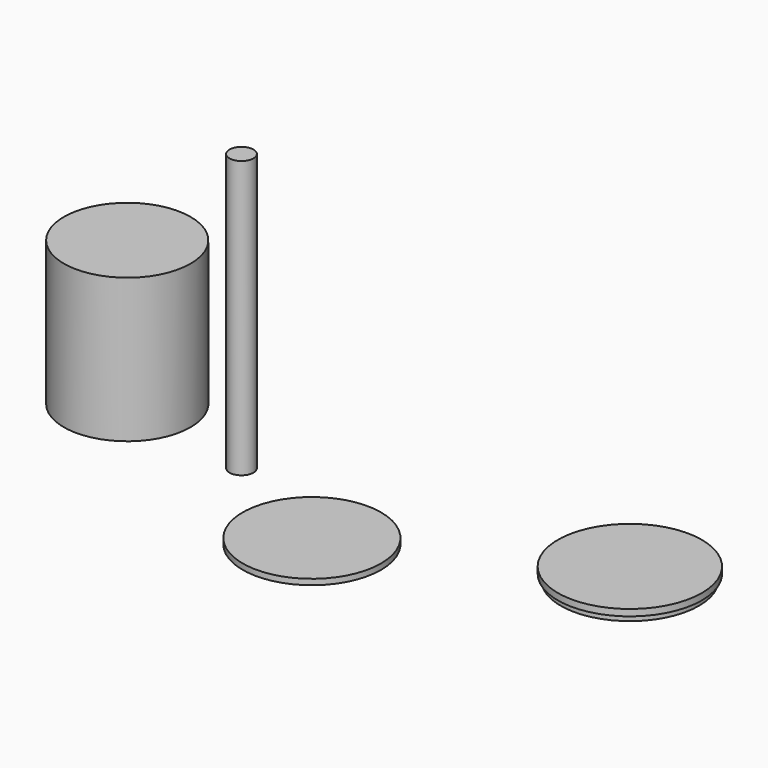
from build123d import *

# Parameters (mm, degrees)
F0_R      = 36.6014
F1_DEPTH  = 2.9972
F2_R      = 6.35
F3_DEPTH  = 146.4056
F4_R      = 36.6014
F5_DEPTH  = 2.9972
F4_R_2    = 38.1
F5_FACE_R = 36.6014
F6_DEPTH  = 3.4544
F7_R      = 33.528961
F8_DEPTH  = 76.2


with BuildPart() as f1:
    # F0 (on Top) → F1 (new body)
    with BuildSketch(Plane.XY):
        Circle(F0_R)
    extrude(amount=F1_DEPTH)


with BuildPart() as f3:
    # F2 (on Top) → F3 (new body)
    with BuildSketch(Plane.XY):
        with Locations((-65.221943, 34.983683)):
            Circle(F2_R)
    extrude(amount=F3_DEPTH)


with BuildPart() as f5:
    # F4 (on Top) → F5 (new body)
    with BuildSketch(Plane.XY):
        with Locations((119.06381, 61.469752)):
            Circle(F4_R)
    extrude(amount=-F5_DEPTH)

    # F4 (on Top) + F5_face (on face) → F6 (join)
    with BuildSketch(Plane.XY):
        with Locations((119.06381, 61.469752)):
            Circle(F4_R_2)
        with Locations((119.06381, 61.469752)):
            Circle(F4_R, mode=Mode.SUBTRACT)
    with BuildSketch(Plane(origin=(119.06381, 61.469752, 0), x_dir=(1, 0, 0), z_dir=(0, 0, 1))):
        Circle(F5_FACE_R)
    extrude(amount=F6_DEPTH)


with BuildPart() as f8:
    # F7 (on Top) → F8 (new body)
    with BuildSketch(Plane.XY):
        with Locations((-138.094097, 50.505746)):
            Circle(F7_R)
    extrude(amount=F8_DEPTH)


solid = Compound([f1.part, f3.part, f5.part, f8.part])
